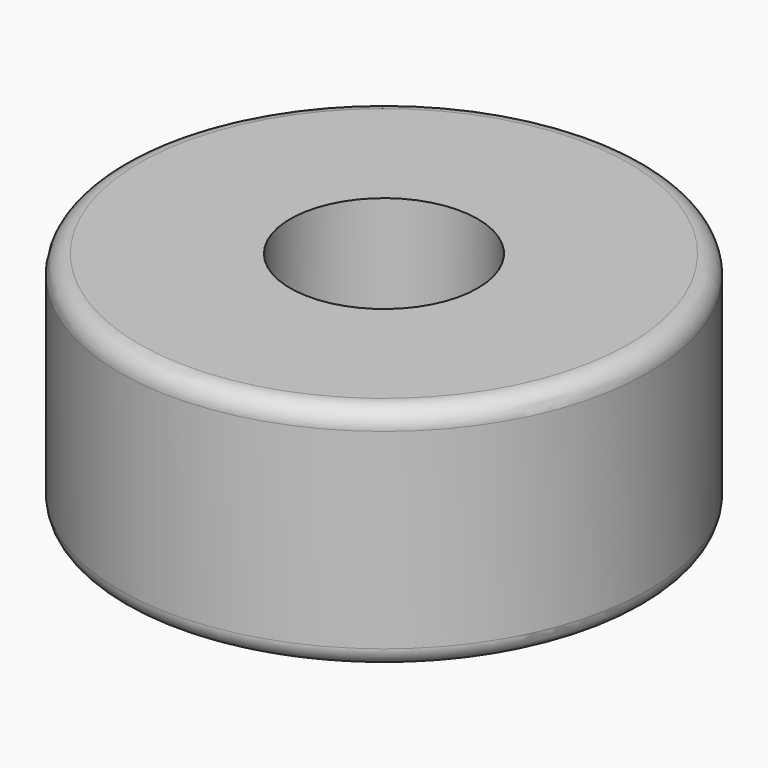
from build123d import *

# Parameters (mm, degrees)
F0_R     = 6.9
F0_R_2   = 2.45
F1_DEPTH = 6
F0_R_3   = 1.7
F2_DEPTH = 1.5
F3_R     = 0.5


with BuildPart() as f1:
    # F0 (on Top) → F1 (new body)
    with BuildSketch(Plane.XY):
        Circle(F0_R)
        Circle(F0_R_2, mode=Mode.SUBTRACT)
    extrude(amount=F1_DEPTH)

    # F0 (on Top) → F2 (join)
    with BuildSketch(Plane.XY):
        Circle(F0_R_2)
        Circle(F0_R_3, mode=Mode.SUBTRACT)
    extrude(amount=F2_DEPTH)

    # F3
    f3_edges = [f1.edges().sort_by_distance(p)[0] for p in [
        (-6.9, 0, 6),
        (-6.9, 0, 0),
    ]]
    fillet(f3_edges, radius=F3_R)


solid = f1.part
